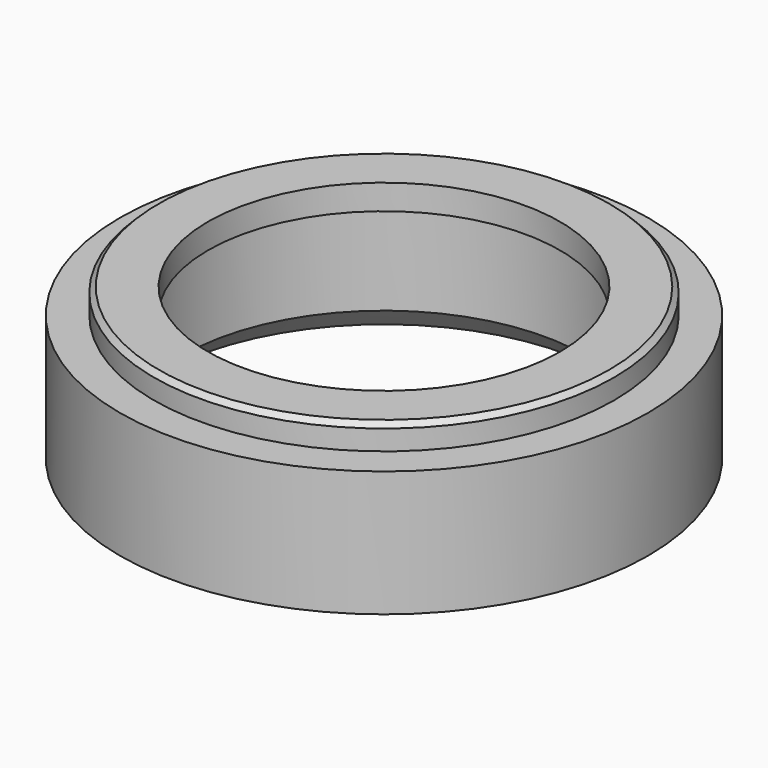
from build123d import *

# Parameters (mm, degrees)
SKETCH_R        = 9.15
PAD_DEPTH       = 1
SKETCH001_R     = 10.5
SKETCH001_R_2   = 8
PAD001_DEPTH    = 5
SKETCH002_R     = 7
POCKET_DEPTH    = 1.001
CHAMFER_SIZE    = 1
CHAMFER001_SIZE = 0.2


with BuildPart() as part:
    # Sketch → Pad (new body)
    with BuildSketch(Plane.XY):
        Circle(SKETCH_R)
    extrude(amount=PAD_DEPTH)

    # Sketch001 → Pad001 (join)
    with BuildSketch(Plane.XY):
        Circle(SKETCH001_R)
        Circle(SKETCH001_R_2, mode=Mode.SUBTRACT)
    extrude(amount=-PAD001_DEPTH)

    # Sketch002 (on Face7 of Pad001) → Pocket (cut, through all)
    with BuildSketch(Plane(origin=(0, 0, 0), x_dir=(1, 0, 0), z_dir=(0, 0, -1))):
        Circle(SKETCH002_R)
    extrude(amount=-POCKET_DEPTH, mode=Mode.SUBTRACT)

    # Chamfer
    chamfer_edges = [part.edges().sort_by_distance(p)[0] for p in [
        (-8, 0, -5),
    ]]
    chamfer(chamfer_edges, length=CHAMFER_SIZE)

    # Chamfer001
    chamfer001_edges = [part.edges().sort_by_distance(p)[0] for p in [
        (-9.15, 0, 1),
    ]]
    chamfer(chamfer001_edges, length=CHAMFER001_SIZE)


solid = part.part
